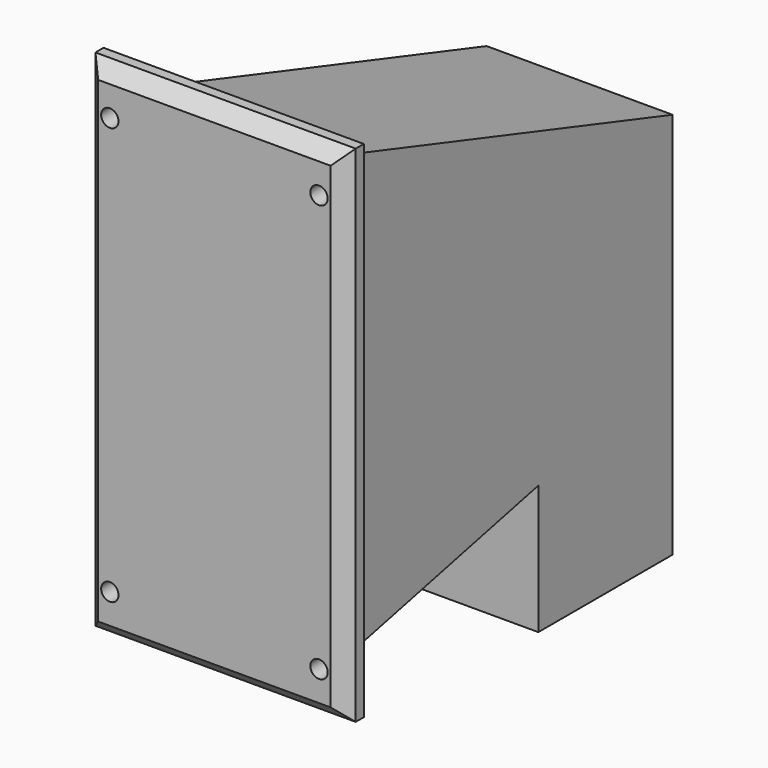
from build123d import *

# Parameters (mm, degrees)
F0_W     = 64.0207
F0_H     = 124.1298
F1_DEPTH = 5.9182
F2_R     = 2.1336
F3_DEPTH = 5.9192
F4_SIZE  = 3.429
F6_DEPTH = 22.86


with BuildPart() as f1:
    # F0 (on Front) → F1 (new body)
    with BuildSketch(Plane.XZ):
        Rectangle(F0_W, F0_H)
    extrude(amount=F1_DEPTH)

    # F2 (on face) → F3 (cut, through all)
    with BuildSketch(Plane(origin=(0, 0, 0), x_dir=(-1, 0, 0), z_dir=(0, 1, 0))):
        with Locations((-25.72385, 51.2953)):
            Circle(F2_R)
        with Locations((25.72385, 51.2953)):
            Circle(F2_R)
        with Locations((25.72385, -51.2953)):
            Circle(F2_R)
        with Locations((-25.72385, -51.2953)):
            Circle(F2_R)
    extrude(amount=-F3_DEPTH, mode=Mode.SUBTRACT)

    # F4
    f4_edges = [f1.edges().sort_by_distance(p)[0] for p in [
        (0, -5.9182, 62.0649),
        (-32.01035, -5.9182, 0),
        (0, -5.9182, -62.0649),
        (32.01035, -5.9182, 0),
    ]]
    chamfer(f4_edges, length=F4_SIZE)

    # F5 (on Right) → F6 (join, symmetric)
    with BuildSketch(Plane.YZ):
        Polygon((11.1125, 52.6669), (0, 52.6669), (0, -55.790792), (65.0875, -41.327979), (65.0875, -73.077979), (106.3625, -73.077979), (106.3625, 22.172021), align=None)
    extrude(amount=F6_DEPTH, both=True)


solid = f1.part
